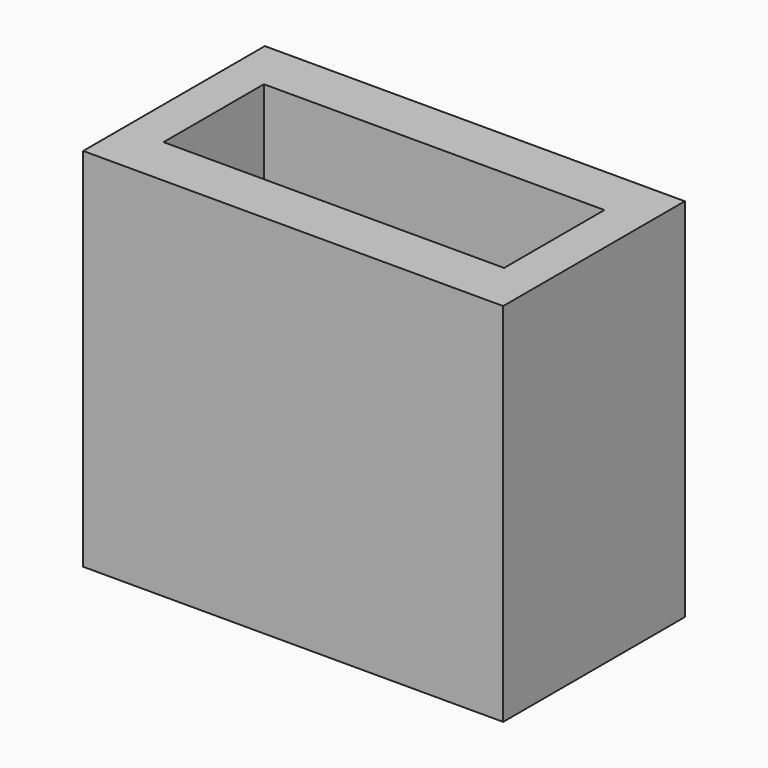
from build123d import *

# Parameters (mm, degrees)
F0_W     = 12
F0_H     = 4.42
F1_DEPTH = 2
F0_W_2   = 14.8
F0_H_2   = 8
F2_DEPTH = 12.9


with BuildPart() as f1:
    # F0 (on Top) → F1 (new body)
    with BuildSketch(Plane.XY):
        with Locations((-8.442831, 4.229229)):
            Rectangle(F0_W, F0_H)
    extrude(amount=F1_DEPTH)

    # F0 (on Top) → F2 (join)
    with BuildSketch(Plane.XY):
        with Locations((-8.442831, 4.229229)):
            Rectangle(F0_W_2, F0_H_2)
        with Locations((-8.442831, 4.229229)):
            Rectangle(F0_W, F0_H, mode=Mode.SUBTRACT)
    extrude(amount=F2_DEPTH)


solid = f1.part
